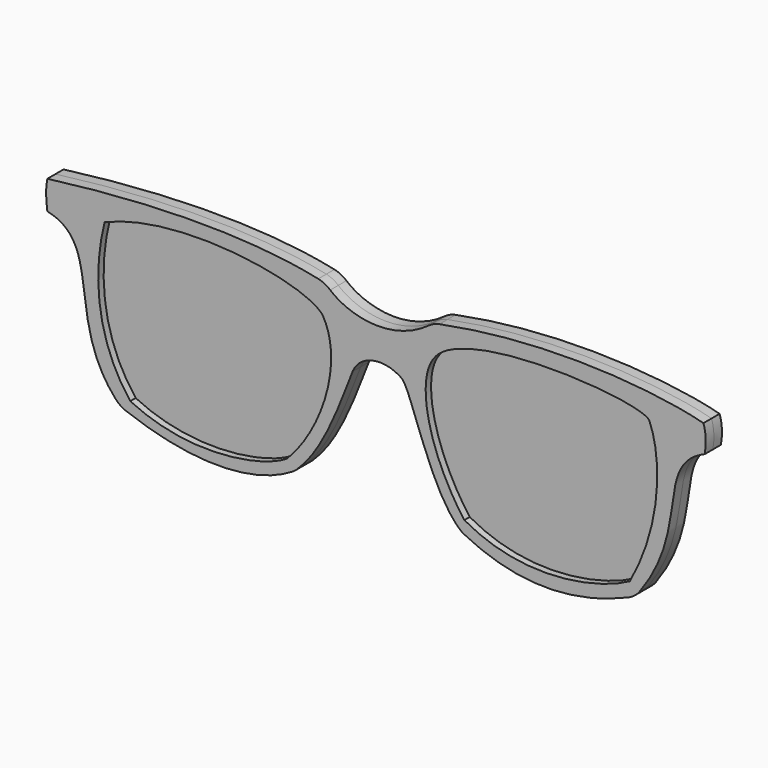
from build123d import *

# Parameters (mm, degrees)
F1_DEPTH = 1.905
F2_R     = 5.08
F3_DEPTH = 0.635


with BuildPart() as f1:
    # F0 (on Front) → F1 (new body, symmetric)
    with BuildSketch(Plane.XZ):
        with BuildLine():
            add(Edge.make_bspline(
                [(-64.3967837095, 12.7973668277), (-46.3123582304, 15.1470536366), (-26.2005273253, 15.891937539), (-11.9473468512, 12.458785437)],
                knots=[0, 0, 0, 0, 52.4505296838, 52.4505296838, 52.4505296838, 52.4505296838], degree=3))
            add(Edge.make_bspline(
                [(-64.3967837095, 12.7973668277), (-64.7854506969, 10.9757110476), (-64.6364688873, 9.1879926622), (-64.3967837095, 7.4002747424)],
                knots=[0, 0, 0, 0, 5.3970920853, 5.3970920853, 5.3970920853, 5.3970920853], degree=3))
            add(Edge.make_bspline(
                [(-64.3967837095, 7.4002747424), (-53.4632317722, 5.0166500732), (-61.5079626441, -9.8810028285), (-50.6326779723, -20.4583350569)],
                knots=[0, 0, 0, 0, 31.0733446332, 31.0733446332, 31.0733446332, 31.0733446332], degree=3))
            add(Edge.make_bspline(
                [(-50.6326779723, -20.4583350569), (-36.9268357754, -25.8214902133), (-25.1576919109, -25.2255834639), (-17.8578421474, -20.4583350569)],
                knots=[0, 0, 0, 0, 32.774835825, 32.774835825, 32.774835825, 32.774835825], degree=3))
            add(Edge.make_bspline(
                [(-17.8578421474, -20.4583350569), (-10.8559448272, -14.3502987921), (-7.4717695825, 0), (-5.9397201985, 1.4412134187)],
                knots=[0, 0, 0, 0, 24.9325460839, 24.9325460839, 24.9325460839, 24.9325460839], degree=3))
            add(Edge.make_bspline(
                [(-5.9397201985, 1.4412134187), (-2.8112125583, 3.3779083751), (0, 2.9309787787), (2.2539887577, 1.4412134187)],
                knots=[0, 0, 0, 0, 8.1937089562, 8.1937089562, 8.1937089562, 8.1937089562], degree=3))
            add(Edge.make_bspline(
                [(2.2539887577, 1.4412134187), (4.22122702, 0), (7.6171443798, -15.8400647342), (13.7251820415, -20.4583350569)],
                knots=[0, 0, 0, 0, 24.722024569, 24.722024569, 24.722024569, 24.722024569], degree=3))
            add(Edge.make_bspline(
                [(13.7251820415, -20.4583350569), (25.909665972, -26.715349406), (36.9655191898, -24.6296785772), (46.2020672858, -20.4583350569)],
                knots=[0, 0, 0, 0, 32.4768852443, 32.4768852443, 32.4768852443, 32.4768852443], degree=3))
            add(Edge.make_bspline(
                [(46.2020672858, -20.4583350569), (57.2263300419, -6.6035194322), (49.4795441628, 3.2289316878), (59.3120008707, 7.4002747424)],
                knots=[0, 0, 0, 0, 30.7891620307, 30.7891620307, 30.7891620307, 30.7891620307], degree=3))
            add(Edge.make_bspline(
                [(59.3120008707, 7.4002747424), (59.6099533141, 9.0390164405), (59.6099533141, 10.826734826), (59.0632893145, 12.458785437)],
                knots=[0, 0, 0, 0, 5.0646211987, 5.0646211987, 5.0646211987, 5.0646211987], degree=3))
            add(Edge.make_bspline(
                [(8.1964945421, 12.458785437), (30.4136807099, 17.0990834013), (51.4162443578, 14.5511478186), (59.0632893145, 12.458785437)],
                knots=[0, 0, 0, 0, 50.8667947724, 50.8667947724, 50.8667947724, 50.8667947724], degree=3))
            add(Edge.make_bspline(
                [(-11.9473468512, 12.458785437), (-9.2756589875, 9.2246374115), (0, 5.7711913183), (8.1964945421, 12.458785437)],
                knots=[0, 0, 0, 0, 20.1438413933, 20.1438413933, 20.1438413933, 20.1438413933], degree=3))
        make_face()
        with BuildLine():
            add(Edge.make_bspline(
                [(48.9005595446, 9.555736091), (47.4496781826, 12.3458928429), (13.9677925035, 14.5949656144), (8.3874780685, 6.782525219)],
                knots=[0, 0, 0, 0, 40.6078867861, 40.6078867861, 40.6078867861, 40.6078867861], degree=3))
            add(Edge.make_bspline(
                [(45.217551291, -18.2342301123), (50.8972220123, -7.9519064166), (51.4980740845, 3.2289316878), (48.9005595446, 9.555736091)],
                knots=[0, 0, 0, 0, 28.0329586625, 28.0329586625, 28.0329586625, 28.0329586625], degree=3))
            add(Edge.make_bspline(
                [(14.0793984756, -18.2342301123), (25.909665972, -24.9306089245), (39.9538092315, -21.2185843848), (45.217551291, -18.2342301123)],
                knots=[0, 0, 0, 0, 31.1381528154, 31.1381528154, 31.1381528154, 31.1381528154], degree=3))
            add(Edge.make_bspline(
                [(8.3874780685, 6.782525219), (4.8160762526, 2.2066673264), (7.4946274981, -9.4173341058), (14.0793984756, -18.2342301123)],
                knots=[0, 0, 0, 0, 25.6561104852, 25.6561104852, 25.6561104852, 25.6561104852], degree=3))
        make_face(mode=Mode.SUBTRACT)
        with BuildLine():
            add(Edge.make_bspline(
                [(-48.7933494151, -18.9754385501), (-55.198777467, -10.8228242025), (-55.9498876428, 0), (-53.6125674844, 9.1017512605)],
                knots=[0, 0, 0, 0, 28.4877772116, 28.4877772116, 28.4877772116, 28.4877772116], degree=3))
            add(Edge.make_bspline(
                [(-53.6125674844, 9.1017512605), (-39.1206145287, 15.31562116), (-15.3962466866, 11.1048528925), (-12.5587712973, 6.9882343523)],
                knots=[0, 0, 0, 0, 41.1081638496, 41.1081638496, 41.1081638496, 41.1081638496], degree=3))
            add(Edge.make_bspline(
                [(-12.5587712973, 6.9882343523), (-8.4413168952, 0), (-13.0299581215, -12.7362087369), (-19.3901564926, -18.9754385501)],
                knots=[0, 0, 0, 0, 26.8473487382, 26.8473487382, 26.8473487382, 26.8473487382], degree=3))
            add(Edge.make_bspline(
                [(-19.3901564926, -18.9754385501), (-24.069821462, -21.8914132565), (-37.3904779553, -24.538077414), (-48.7933494151, -18.9754385501)],
                knots=[0, 0, 0, 0, 29.4031929225, 29.4031929225, 29.4031929225, 29.4031929225], degree=3))
        make_face(mode=Mode.SUBTRACT)
    extrude(amount=F1_DEPTH, both=True)

    # F2 (call 1 of 6: OpenCascade refuses the feature's edges together)
    f2_edges = [f1.edges().sort_by_distance(p)[0] for p in [
        (-50.632678, 0.9525, -20.458335),
        (-50.632678, -0.9525, -20.458335),
    ]]
    fillet(f2_edges, radius=F2_R)

    # F2#2 (call 2 of 6)
    f2_2_edges = [f1.edges().sort_by_distance(p)[0] for p in [
        (-17.857842, 0.9525, -20.458335),
        (-17.857842, -0.9525, -20.458335),
    ]]
    fillet(f2_2_edges, radius=F2_R)

    # F2#3 (call 3 of 6)
    f2_3_edges = [f1.edges().sort_by_distance(p)[0] for p in [
        (46.202067, 0.9525, -20.458335),
        (46.202067, -0.9525, -20.458335),
    ]]
    fillet(f2_3_edges, radius=F2_R)

    # F2#4 (call 4 of 6)
    f2_4_edges = [f1.edges().sort_by_distance(p)[0] for p in [
        (-5.93972, 0.9525, 1.441213),
        (-5.93972, -0.9525, 1.441213),
    ]]
    fillet(f2_4_edges, radius=F2_R)

    # F2#5 (call 5 of 6)
    f2_5_edges = [f1.edges().sort_by_distance(p)[0] for p in [
        (-11.947347, 0.9525, 12.458785),
        (-11.947347, -0.9525, 12.458785),
    ]]
    fillet(f2_5_edges, radius=F2_R)

    # F2#6 (call 6 of 6)
    f2_6_edges = [f1.edges().sort_by_distance(p)[0] for p in [
        (8.196495, 0.9525, 12.458785),
        (8.196495, -0.9525, 12.458785),
    ]]
    fillet(f2_6_edges, radius=F2_R)

    # F0 (on Front) → F3 (join, symmetric)
    with BuildSketch(Plane.XZ):
        with BuildLine():
            add(Edge.make_bspline(
                [(-53.6125674844, 9.1017512605), (-39.1206145287, 15.31562116), (-15.3962466866, 11.1048528925), (-12.5587712973, 6.9882343523)],
                knots=[0, 0, 0, 0, 41.1081638496, 41.1081638496, 41.1081638496, 41.1081638496], degree=3))
            add(Edge.make_bspline(
                [(-48.7933494151, -18.9754385501), (-55.198777467, -10.8228242025), (-55.9498876428, 0), (-53.6125674844, 9.1017512605)],
                knots=[0, 0, 0, 0, 28.4877772116, 28.4877772116, 28.4877772116, 28.4877772116], degree=3))
            add(Edge.make_bspline(
                [(-19.3901564926, -18.9754385501), (-24.069821462, -21.8914132565), (-37.3904779553, -24.538077414), (-48.7933494151, -18.9754385501)],
                knots=[0, 0, 0, 0, 29.4031929225, 29.4031929225, 29.4031929225, 29.4031929225], degree=3))
            add(Edge.make_bspline(
                [(-12.5587712973, 6.9882343523), (-8.4413168952, 0), (-13.0299581215, -12.7362087369), (-19.3901564926, -18.9754385501)],
                knots=[0, 0, 0, 0, 26.8473487382, 26.8473487382, 26.8473487382, 26.8473487382], degree=3))
        make_face()
        with BuildLine():
            add(Edge.make_bspline(
                [(45.217551291, -18.2342301123), (50.8972220123, -7.9519064166), (51.4980740845, 3.2289316878), (48.9005595446, 9.555736091)],
                knots=[0, 0, 0, 0, 28.0329586625, 28.0329586625, 28.0329586625, 28.0329586625], degree=3))
            add(Edge.make_bspline(
                [(48.9005595446, 9.555736091), (47.4496781826, 12.3458928429), (13.9677925035, 14.5949656144), (8.3874780685, 6.782525219)],
                knots=[0, 0, 0, 0, 40.6078867861, 40.6078867861, 40.6078867861, 40.6078867861], degree=3))
            add(Edge.make_bspline(
                [(8.3874780685, 6.782525219), (4.8160762526, 2.2066673264), (7.4946274981, -9.4173341058), (14.0793984756, -18.2342301123)],
                knots=[0, 0, 0, 0, 25.6561104852, 25.6561104852, 25.6561104852, 25.6561104852], degree=3))
            add(Edge.make_bspline(
                [(14.0793984756, -18.2342301123), (25.909665972, -24.9306089245), (39.9538092315, -21.2185843848), (45.217551291, -18.2342301123)],
                knots=[0, 0, 0, 0, 31.1381528154, 31.1381528154, 31.1381528154, 31.1381528154], degree=3))
        make_face()
    extrude(amount=F3_DEPTH, both=True)


solid = f1.part
